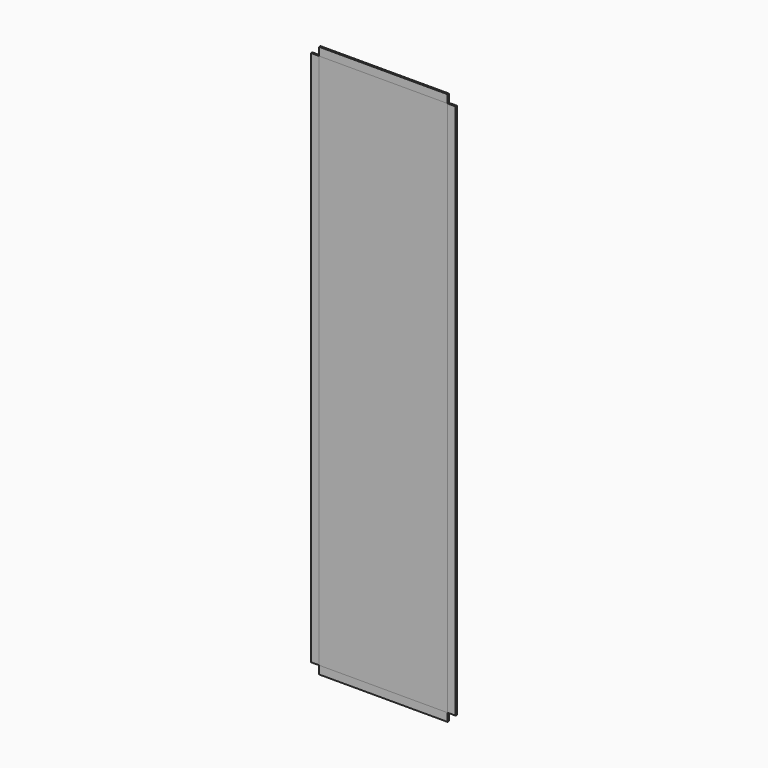
from build123d import *

# Parameters (mm, degrees)
F0_W     = 250.825
F0_H     = 1047.75
F1_DEPTH = 1.5875
F2_W     = 3.175
F2_H     = 1047.75
F3_DEPTH = 15.875
F4_DEPTH = 15.875
F5_DEPTH = 15.875
F6_DEPTH = 15.875


with BuildPart() as f1:
    # F0 (on Front) → F1 (new body, symmetric)
    with BuildSketch(Plane.XZ):
        with Locations((120.8200038359, 507.1482994068)):
            Rectangle(F0_W, F0_H)
    extrude(amount=F1_DEPTH, both=True)


with BuildPart() as f3:
    # F2 (on face) → F3 (new body)
    with BuildSketch(Plane.YZ.offset(246.2325038359)):
        with Locations((0, 507.1482994068)):
            Rectangle(F2_W, F2_H)
    extrude(amount=F3_DEPTH)


with BuildPart() as f4:
    # F4 (new): a face of the model
    f4_faces = [f1.part.faces().sort_by_distance(p)[0] for p in [
        (120.8200038359, 0, 1031.0232994068),
    ]]
    extrude(f4_faces, amount=F4_DEPTH)


with BuildPart() as f5:
    # F5 (new): a face of the model
    f5_faces = [f1.part.faces().sort_by_distance(p)[0] for p in [
        (-4.5924961641, 0, 507.1482994068),
    ]]
    extrude(f5_faces, amount=F5_DEPTH)


with BuildPart() as f6:
    # F6 (new): a face of the model
    f6_faces = [f1.part.faces().sort_by_distance(p)[0] for p in [
        (120.8200038359, 0, -16.7267005932),
    ]]
    extrude(f6_faces, amount=F6_DEPTH)


solid = Compound([f1.part, f3.part, f4.part, f5.part, f6.part])
